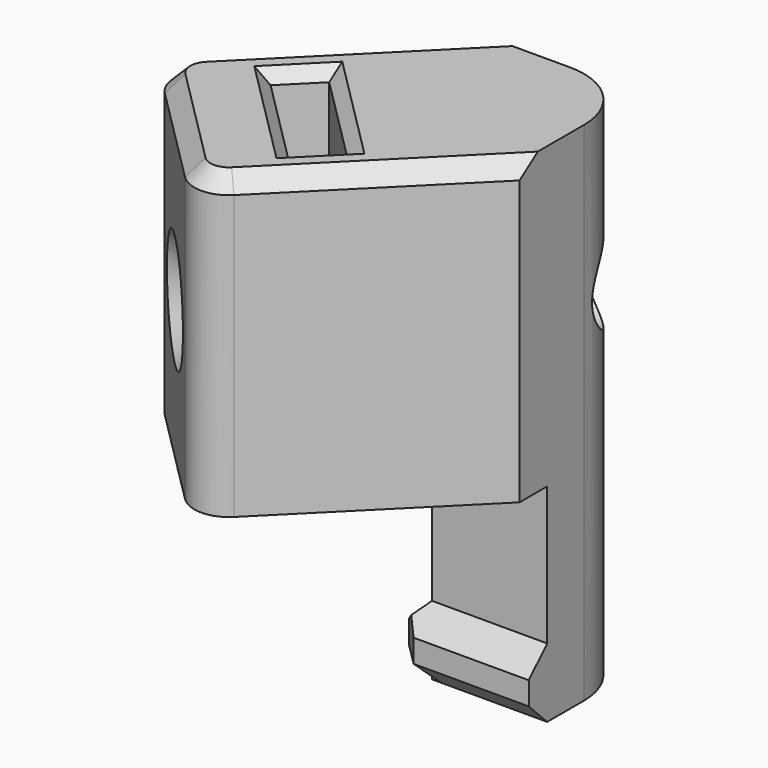
from build123d import *

# Parameters (mm, degrees)
BOX406004_W                 = 5.8
BOX406004_H                 = 14.8
BOX406004_DEPTH             = 2
BOX406004_ROLL_ANGLE        = 89.999938
BOX406004_PITCH_ANGLE       = -2.6e-05
BOX406004_PLACEMENT_ANGLE   = -45.000013
CYLINDER066_R               = 1.75
CYLINDER066_DEPTH           = 33
CYLINDER066_ROLL_ANGLE      = 90.000024
CYLINDER066_PITCH_ANGLE     = 1e-05
CYLINDER066_PLACEMENT_ANGLE = -45.000049
BOX404_W                    = 5
BOX404_H                    = 5
BOX404_DEPTH                = 14
BOX406007_W                 = 14
BOX406007_H                 = 10
BOX406007_DEPTH             = 14
BOX406007_PLACEMENT_ANGLE   = 45
BOX405_W                    = 15
BOX405_H                    = 15
BOX405_DEPTH                = 13
CHAMFER_SIZE                = 8.5
FILLET_R                    = 1.5
BOX406008009_W              = 6
BOX406008009_H              = 6
BOX406008009_DEPTH          = 3
CHAMFER029_SIZE             = 1
CHAMFER030_SIZE             = 1
CHAMFER033_SIZE             = 1
FILLET006_R                 = 3
CHAMFER034_SIZE             = 0.7
CHAMFER042_SIZE             = 0.5


with BuildPart() as box406004:
    # Box406004 → Box406004 (new body)
    with BuildSketch(Plane.XY):
        with Locations((2.9, 7.4)):
            Rectangle(BOX406004_W, BOX406004_H)
    extrude(amount=BOX406004_DEPTH)


with BuildPart() as box406004_1:
    # Box406004 roll: moved
    add(box406004.part.rotate(Axis((0, 0, 0), (1, 0, 0)), BOX406004_ROLL_ANGLE))


with BuildPart() as box406004_2:
    # Box406004 pitch: moved
    add(box406004_1.part.rotate(Axis((0, 0, 0), (0, 1, 0)), BOX406004_PITCH_ANGLE))


with BuildPart() as box406004_3:
    # Box406004 placement: moved
    add(box406004_2.part.moved(Location((15.7, 19.8, 5.1))).rotate(Axis((15.7, 19.8, 5.1), (0, 0, 1)), BOX406004_PLACEMENT_ANGLE))


with BuildPart() as finger_cavity:
    # Cylinder066 → Cylinder066 (new body)
    with BuildSketch(Plane.XY):
        Circle(CYLINDER066_R)
    extrude(amount=CYLINDER066_DEPTH)


with BuildPart() as finger_cavity_1:
    # Cylinder066 roll: moved
    add(finger_cavity.part.rotate(Axis((0, 0, 0), (1, 0, 0)), CYLINDER066_ROLL_ANGLE))


with BuildPart() as finger_cavity_2:
    # Cylinder066 pitch: moved
    add(finger_cavity_1.part.rotate(Axis((0, 0, 0), (0, 1, 0)), CYLINDER066_PITCH_ANGLE))


with BuildPart() as finger_cavity_3:
    # Cylinder066 placement: moved
    add(finger_cavity_2.part.moved(Location((26.8701, 26.8701, 8))).rotate(Axis((26.8701, 26.8701, 8), (0, 0, 1)), CYLINDER066_PLACEMENT_ANGLE))

    # Fusion103077010: union Box406004
    add(box406004_3.part)


with BuildPart() as cube334:
    # Box404 → Box404 (new body)
    with BuildSketch(Plane(origin=(20, 20, -7), x_dir=(1, 0, 0), z_dir=(0, 0, 1))):
        with Locations((2.5, 2.5)):
            Rectangle(BOX404_W, BOX404_H)
    extrude(amount=BOX404_DEPTH)


with BuildPart() as cube338:
    # Box406007 → Box406007 (new body)
    with BuildSketch(Plane.XY):
        with Locations((7, 5)):
            Rectangle(BOX406007_W, BOX406007_H)
    extrude(amount=BOX406007_DEPTH)


with BuildPart() as cube338_1:
    # Box406007 placement: moved
    add(cube338.part.moved(Location((1.78, 11.68, 2))).rotate(Axis((1.78, 11.68, 2), (0, 0, -1)), BOX406007_PLACEMENT_ANGLE))


with BuildPart() as fillet_body:
    # Box405 → Box405 (new body)
    with BuildSketch(Plane(origin=(10, 10, 2), x_dir=(1, 0, 0), z_dir=(0, 0, 1))):
        with Locations((7.5, 7.5)):
            Rectangle(BOX405_W, BOX405_H)
    extrude(amount=BOX405_DEPTH)

    # Chamfer
    chamfer_edges = [fillet_body.edges().sort_by_distance(p)[0] for p in [
        (10, 25, 8.5),
        (25, 10, 8.5),
    ]]
    chamfer(chamfer_edges, length=CHAMFER_SIZE)

    # Cut173011017: cut Cube338
    add(cube338_1.part, mode=Mode.SUBTRACT)

    # Fillet
    fillet_edges = [fillet_body.edges().sort_by_distance(p)[0] for p in [
        (10.551068, 17.051068, 8.5),
        (17.051068, 10.551068, 8.5),
    ]]
    fillet(fillet_edges, radius=FILLET_R)


with BuildPart() as finger:
    # Box406008009 → Box406008009 (new body)
    with BuildSketch(Plane(origin=(19, 19, -7), x_dir=(1, 0, 0), z_dir=(0, 0, 1))):
        with Locations((3, 3)):
            Rectangle(BOX406008009_W, BOX406008009_H)
    extrude(amount=BOX406008009_DEPTH)

    # Chamfer029
    chamfer029_edges = [finger.edges().sort_by_distance(p)[0] for p in [
        (19, 22, -4),
        (22, 19, -4),
    ]]
    chamfer(chamfer029_edges, length=CHAMFER029_SIZE)

    # Chamfer030
    chamfer030_edges = [finger.edges().sort_by_distance(p)[0] for p in [
        (19, 19, -6),
    ]]
    chamfer(chamfer030_edges, length=CHAMFER030_SIZE)

    # Chamfer033
    chamfer033_edges = [finger.edges().sort_by_distance(p)[0] for p in [
        (19, 22.5, -7),
        (19.5, 19.5, -7),
        (22.5, 19, -7),
    ]]
    chamfer(chamfer033_edges, length=CHAMFER033_SIZE)

    # Fusion103077013004017007: union Cube334, Fillet body
    add(cube334.part)
    add(fillet_body.part)

    # Fillet006
    fillet006_edges = [finger.edges().sort_by_distance(p)[0] for p in [
        (25, 25, -5.5),
        (25, 25, -1),
        (25, 25, 4.5),
        (25, 25, 11),
    ]]
    fillet(fillet006_edges, radius=FILLET006_R)

    # Cut173011018: cut finger-cavity
    add(finger_cavity_3.part, mode=Mode.SUBTRACT)

    # Chamfer034
    chamfer034_edges = [finger.edges().sort_by_distance(p)[0] for p in [
        (17.051068, 11.172388, 15),
        (11.611728, 15.990408, 8.5),
        (13.801068, 13.801068, 15),
        (12.56362, 15.038516, 7.999993),
    ]]
    chamfer(chamfer034_edges, length=CHAMFER034_SIZE)

    # Chamfer042
    chamfer042_edges = [finger.edges().sort_by_distance(p)[0] for p in [
        (16.3364, 16.335187, 15),
        (19.094116, 14.991684, 15),
        (17.750614, 17.749401, 15),
        (14.992898, 19.092904, 15),
    ]]
    chamfer(chamfer042_edges, length=CHAMFER042_SIZE)


solid = finger.part
